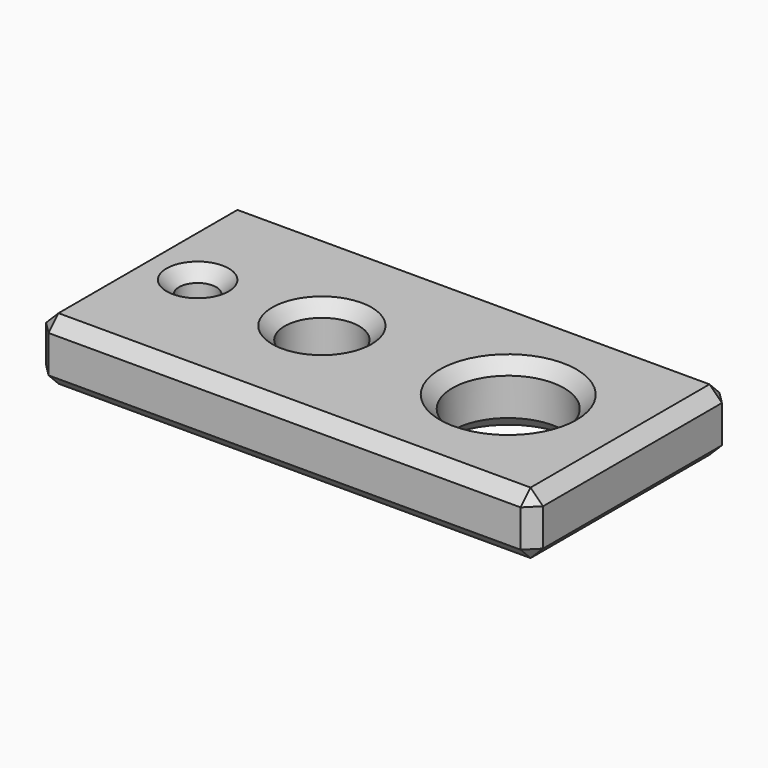
from build123d import *

# Parameters (mm, degrees)
F1_W          = 508
F1_H          = 254
F2_DEPTH      = 63.5
F4_R          = 38.1
F5_DEPTH      = 127
F5_DEPTH_BACK = 127
F6_R          = 57.15
F7_DEPTH      = 127
F7_DEPTH_BACK = 127
F3_R          = 19.05
F8_DEPTH      = 127
F9_SIZE2      = 12.7
F9_SIZE       = 12.7


with BuildPart() as f2:
    # F1 (on face) → F2 (new body)
    with BuildSketch(Plane.XY):
        with Locations((0, -127)):
            Rectangle(F1_W, F1_H)
    extrude(amount=F2_DEPTH)

    # F4 (on face) → F5 (cut, two sides)
    with BuildSketch(Plane.XY.offset(63.5)) as f5_sk:
        with Locations((-63.5, -127)):
            Circle(F4_R)
    extrude(amount=F5_DEPTH, mode=Mode.SUBTRACT)
    extrude(f5_sk.sketch, amount=-F5_DEPTH_BACK, mode=Mode.SUBTRACT)

    # F6 (on face) → F7 (cut, two sides)
    with BuildSketch(Plane.XY.offset(63.5)) as f7_sk:
        with Locations((127, -127)):
            Circle(F6_R)
    extrude(amount=F7_DEPTH, mode=Mode.SUBTRACT)
    extrude(f7_sk.sketch, amount=-F7_DEPTH_BACK, mode=Mode.SUBTRACT)

    # F3 (on face) → F8 (cut)
    with BuildSketch(Plane.XY.offset(63.5)):
        with Locations((-190.5, -127)):
            Circle(F3_R)
    extrude(amount=-F8_DEPTH, mode=Mode.SUBTRACT)

    # F9
    f9_edges = [f2.edges().sort_by_distance(p)[0] for p in [
        (-254, -127, 0),
        (0, 0, 0),
        (-254, -254, 31.75),
        (254, -254, 31.75),
        (0, -254, 0),
        (0, -254, 63.5),
        (254, 0, 31.75),
        (254, -127, 0),
        (254, -127, 63.5),
        (0, 0, 63.5),
        (-254, -127, 63.5),
        (-209.55, -127, 63.5),
        (-101.6, -127, 63.5),
        (69.85, -127, 63.5),
        (-209.55, -127, 0),
        (-101.6, -127, 0),
        (69.85, -127, 0),
    ]]
    chamfer(f9_edges, length=F9_SIZE, length2=F9_SIZE2)


solid = f2.part
